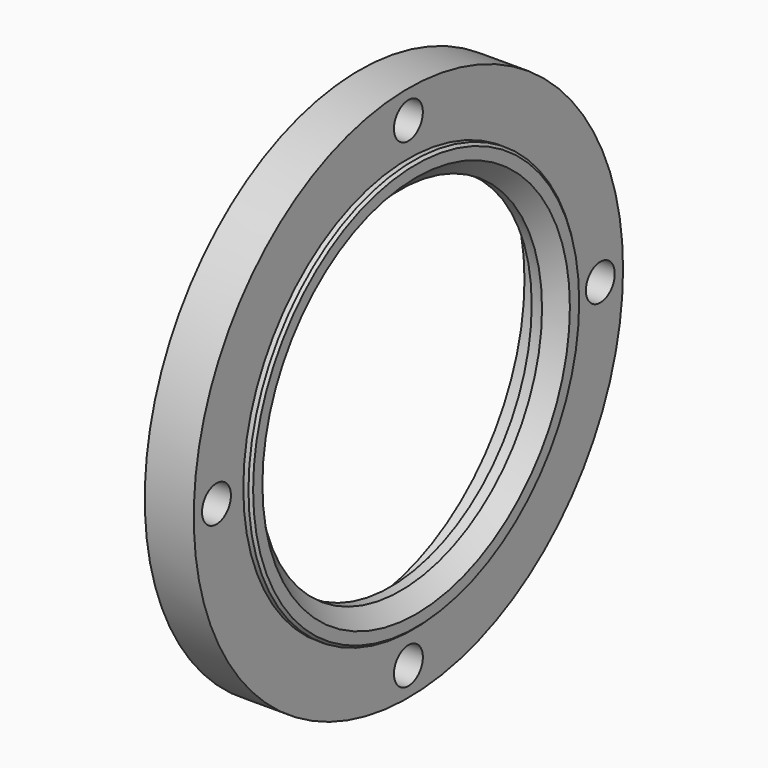
from build123d import *

# Parameters (mm, degrees)
F0_R     = 104
F0_R_2   = 68.5
F1_DEPTH = 9.5
F3_D     = 14
F4_R     = 80
F5_DEPTH = 12
F6_R     = 80
F6_R_2   = 68.5
F7_DEPTH = 3
F8_SIZE  = 1
F9_SIZE  = 6


with BuildPart() as f1:
    # F0 (on Right) → F1 (new body, symmetric)
    with BuildSketch(Plane.YZ):
        Circle(F0_R)
        Circle(F0_R_2, mode=Mode.SUBTRACT)
    extrude(amount=F1_DEPTH, both=True)

    # F3 (through all)
    with Locations(Plane.YZ.offset(9.5)):
        with Locations((0, 93), (93, 0), (0, -93), (-93, 0)):
            Hole(F3_D / 2)

    # F4 (on face) → F5 (cut)
    with BuildSketch(Plane(origin=(-9.5, 0, 0), x_dir=(0, -1, 0), z_dir=(-1, 0, 0))):
        Circle(F4_R)
    extrude(amount=-F5_DEPTH, mode=Mode.SUBTRACT)

    # F6 (on face) → F7 (join)
    with BuildSketch(Plane.YZ.offset(9.5)):
        Circle(F6_R)
        Circle(F6_R_2, mode=Mode.SUBTRACT)
    extrude(amount=F7_DEPTH)

    # F8
    f8_edges = [f1.edges().sort_by_distance(p)[0] for p in [
        (12.5, -80, 0),
    ]]
    chamfer(f8_edges, length=F8_SIZE)

    # F9
    f9_edges = [f1.edges().sort_by_distance(p)[0] for p in [
        (12.5, -68.5, 0),
    ]]
    chamfer(f9_edges, length=F9_SIZE)


solid = f1.part
